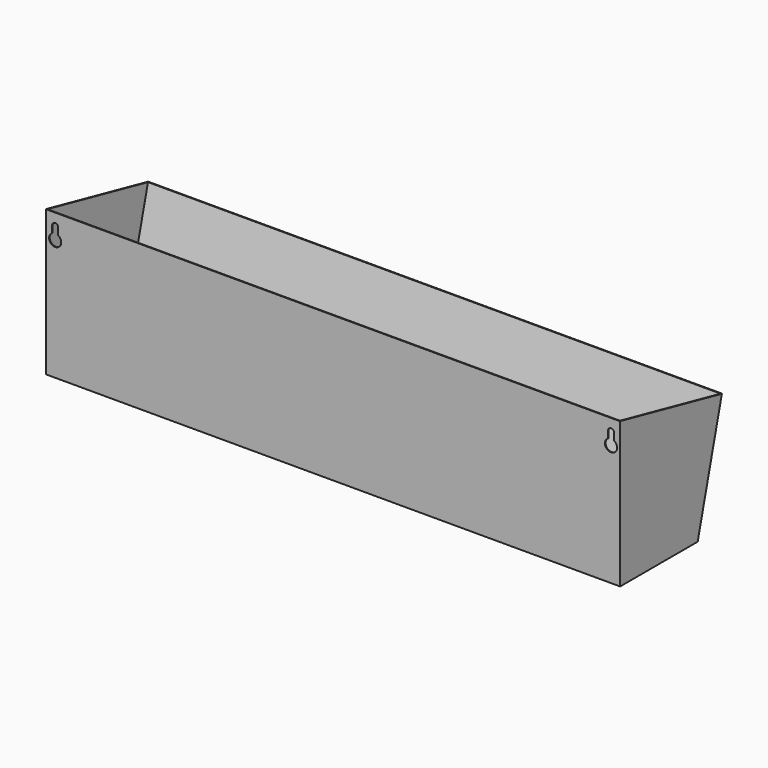
from build123d import *

# Parameters (mm, degrees)
F1_DEPTH = 600.1512
F3_DEPTH = 0.762
F5_DEPTH = 0.762
F7_DEPTH = 0.762
F9_DEPTH = 25.4


with BuildPart() as f1:
    # F0 (on Right) → F1 (new body)
    with BuildSketch(Plane.YZ):
        Polygon((0, -151.638), (0, 0), (-0.762, 0), (-0.762, -152.4), (100.838, -152.4), (132.588, -28.620478), (131.801332, -28.620478), (100.246788, -151.638), align=None)
    extrude(amount=F1_DEPTH)

    # F2 (on face) → F3 (join)
    with BuildSketch(Plane.YZ.offset(600.1512)):
        Polygon((0, 0), (-0.762, 0), (-0.762, -152.4), (100.838, -152.4), (132.588, -28.620478), (131.801332, -28.620478), align=None)
    extrude(amount=F3_DEPTH)

    # F4 (on face) → F5 (join)
    with BuildSketch(Plane(origin=(0, 0, 0), x_dir=(0, -1, 0), z_dir=(-1, 0, 0))):
        Polygon((0.762, -152.4), (0.762, 0), (0, 0), (-131.801332, -28.620478), (-132.588, -28.620478), (-100.838, -152.4), align=None)
    extrude(amount=F5_DEPTH)

    # F6 (on face) → F7 (cut)
    with BuildSketch(Plane.XZ.offset(0.762)):
        with BuildLine():
            Line((5.588, -12.7), (5.588, -19.900739))
            ThreePointArc((5.588, -19.900739), (8.763, -31.75), (11.938, -19.900739))
            Line((11.938, -19.900739), (11.938, -12.7))
            ThreePointArc((11.938, -12.7), (8.763, -9.525), (5.588, -12.7))
        make_face()
        with BuildLine():
            ThreePointArc((588.2132, -19.900739), (591.3882, -31.75), (594.5632, -19.900739))
            Line((594.5632, -19.900739), (594.5632, -12.7))
            ThreePointArc((594.5632, -12.7), (591.3882, -9.525), (588.2132, -12.7))
            Line((588.2132, -12.7), (588.2132, -19.900739))
        make_face()
    extrude(amount=-F7_DEPTH, mode=Mode.SUBTRACT)

    # F8 (on face) → F9 (cut)
    with BuildSketch(Plane.XY.offset(-151.638)):
        with BuildLine():
            Line((84.1756, 52.621788), (58.7756, 52.621788))
            ThreePointArc((58.7756, 52.621788), (55.6006, 49.446788), (58.7756, 46.271788))
            Line((58.7756, 46.271788), (84.1756, 46.271788))
            ThreePointArc((84.1756, 46.271788), (87.3506, 49.446788), (84.1756, 52.621788))
        make_face()
        with BuildLine():
            Line((147.6756, 52.621788), (122.2756, 52.621788))
            ThreePointArc((122.2756, 52.621788), (119.1006, 49.446788), (122.2756, 46.271788))
            Line((122.2756, 46.271788), (147.6756, 46.271788))
            ThreePointArc((147.6756, 46.271788), (150.8506, 49.446788), (147.6756, 52.621788))
        make_face()
        with BuildLine():
            Line((211.1756, 52.621788), (185.7756, 52.621788))
            ThreePointArc((185.7756, 52.621788), (182.6006, 49.446788), (185.7756, 46.271788))
            Line((185.7756, 46.271788), (211.1756, 46.271788))
            ThreePointArc((211.1756, 46.271788), (214.3506, 49.446788), (211.1756, 52.621788))
        make_face()
        with BuildLine():
            Line((274.6756, 52.621788), (249.2756, 52.621788))
            ThreePointArc((249.2756, 52.621788), (246.1006, 49.446788), (249.2756, 46.271788))
            Line((249.2756, 46.271788), (274.6756, 46.271788))
            ThreePointArc((274.6756, 46.271788), (277.8506, 49.446788), (274.6756, 52.621788))
        make_face()
        with BuildLine():
            ThreePointArc((350.8756, 46.271788), (354.0506, 49.446788), (350.8756, 52.621788))
            Line((350.8756, 52.621788), (325.4756, 52.621788))
            ThreePointArc((325.4756, 52.621788), (322.3006, 49.446788), (325.4756, 46.271788))
            Line((325.4756, 46.271788), (350.8756, 46.271788))
        make_face()
        with BuildLine():
            ThreePointArc((388.9756, 52.621788), (385.8006, 49.446788), (388.9756, 46.271788))
            Line((388.9756, 46.271788), (414.3756, 46.271788))
            ThreePointArc((414.3756, 46.271788), (417.5506, 49.446788), (414.3756, 52.621788))
            Line((414.3756, 52.621788), (388.9756, 52.621788))
        make_face()
        with BuildLine():
            ThreePointArc((452.4756, 52.621788), (449.3006, 49.446788), (452.4756, 46.271788))
            Line((452.4756, 46.271788), (477.8756, 46.271788))
            ThreePointArc((477.8756, 46.271788), (481.0506, 49.446788), (477.8756, 52.621788))
            Line((477.8756, 52.621788), (452.4756, 52.621788))
        make_face()
        with BuildLine():
            ThreePointArc((541.3756, 46.271788), (544.5506, 49.446788), (541.3756, 52.621788))
            Line((541.3756, 52.621788), (515.9756, 52.621788))
            ThreePointArc((515.9756, 52.621788), (512.8006, 49.446788), (515.9756, 46.271788))
            Line((515.9756, 46.271788), (541.3756, 46.271788))
        make_face()
    extrude(amount=-F9_DEPTH, mode=Mode.SUBTRACT)


solid = f1.part
